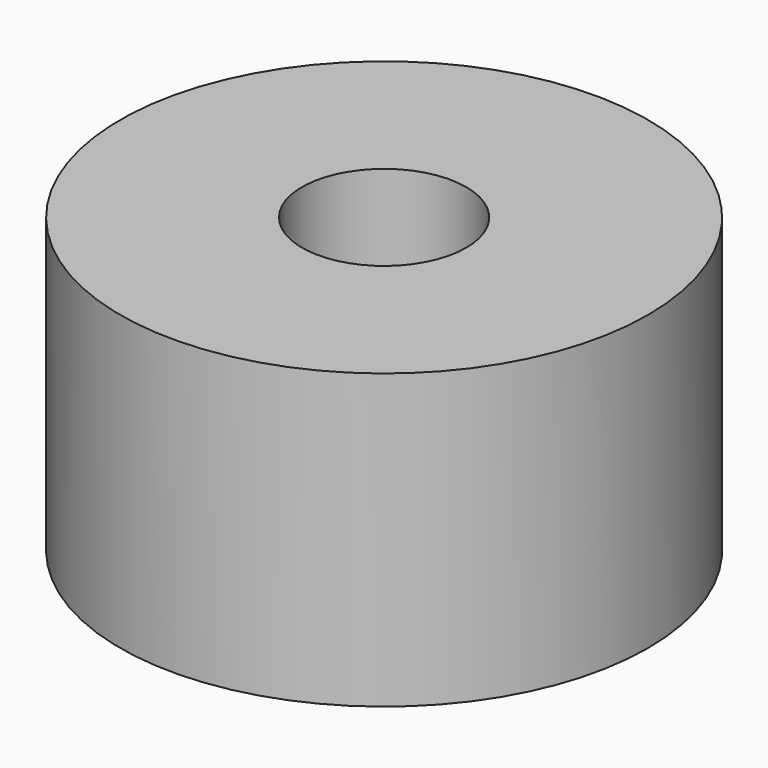
from build123d import *

# Parameters (mm, degrees)
CYLINDER980_R     = 1
CYLINDER980_DEPTH = 20
CYLINDER977_R     = 1
CYLINDER977_DEPTH = 20
CYLINDER976_R     = 1
CYLINDER976_DEPTH = 20
CYLINDER979_R     = 1
CYLINDER979_DEPTH = 20
TUBE092_R         = 9
TUBE092_R_2       = 2.8
TUBE092_DEPTH     = 10


with BuildPart() as obj1:
    # Cylinder980 → Cylinder980 (new body)
    with BuildSketch(Plane(origin=(4.5, -4.5, -88), x_dir=(0, 1, 0), z_dir=(0, 0, 1))):
        Circle(CYLINDER980_R)
    extrude(amount=CYLINDER980_DEPTH)


with BuildPart() as obj2:
    # Cylinder977 → Cylinder977 (new body)
    with BuildSketch(Plane(origin=(4.5, 4.5, -88), x_dir=(-1, 0, 0), z_dir=(0, 0, 1))):
        Circle(CYLINDER977_R)
    extrude(amount=CYLINDER977_DEPTH)


with BuildPart() as obj3:
    # Cylinder976 → Cylinder976 (new body)
    with BuildSketch(Plane(origin=(-4.5, 4.5, -88), x_dir=(0, -1, 0), z_dir=(0, 0, 1))):
        Circle(CYLINDER976_R)
    extrude(amount=CYLINDER976_DEPTH)


with BuildPart() as compound809:
    # Cylinder979 → Cylinder979 (new body)
    with BuildSketch(Plane(origin=(-4.5, -4.5, -88), x_dir=(1, 0, 0), z_dir=(0, 0, 1))):
        Circle(CYLINDER979_R)
    extrude(amount=CYLINDER979_DEPTH)

    # Compound809: union obj1, obj2, obj3
    add(obj1.part)
    add(obj2.part)
    add(obj3.part)


with BuildPart() as compound809_1:
    # Compound809 placement: moved
    add(compound809.part.moved(Location((0, 0, 91))))


with BuildPart() as cut413:
    # Tube092 → Tube092 (new body)
    with BuildSketch(Plane.XY.offset(19)):
        Circle(TUBE092_R)
        Circle(TUBE092_R_2, mode=Mode.SUBTRACT)
    extrude(amount=TUBE092_DEPTH)

    # Cut413: cut Compound809
    add(compound809_1.part, mode=Mode.SUBTRACT)


solid = cut413.part
